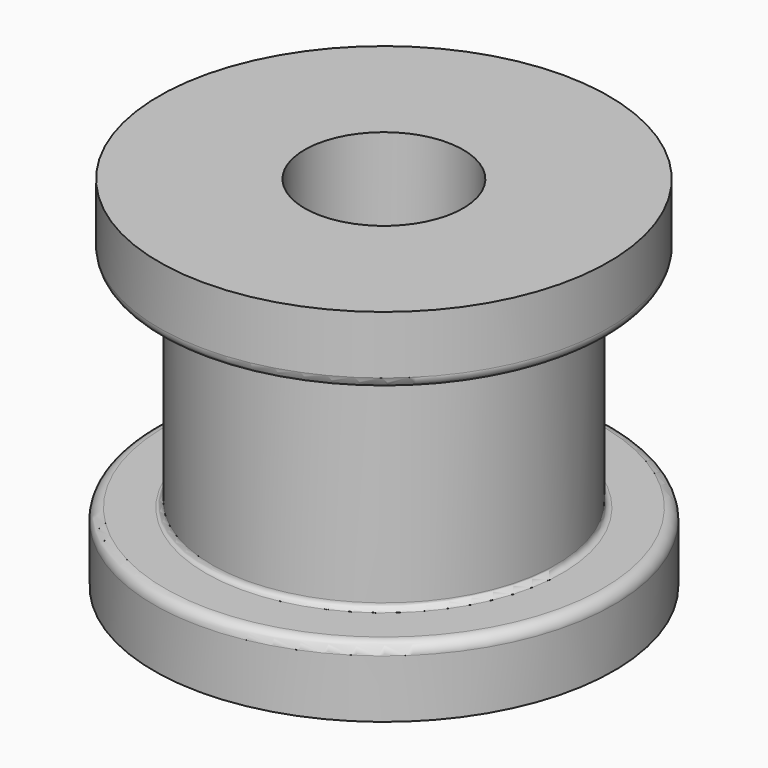
from build123d import *


with BuildPart() as f1:
    # F0 (on Right) → F1 (revolve)
    with BuildSketch(Plane.YZ):
        with BuildLine():
            Line((-2.95275, -6.67385), (-2.95275, 0))
            Line((-2.95275, 0), (-8.37565, 0))
            Line((-8.37565, 0), (-8.37565, -2.16535))
            ThreePointArc((-8.37565, -2.16535), (-8.256618, -2.452718), (-7.96925, -2.57175))
            Line((-7.96925, -2.57175), (-6.635698, -2.57175))
            ThreePointArc((-6.635698, -2.57175), (-6.48307, -2.63497), (-6.41985, -2.787598))
            Line((-6.41985, -2.787598), (-6.41985, -10.560102))
            ThreePointArc((-6.41985, -10.560102), (-6.48307, -10.71273), (-6.635698, -10.77595))
            Line((-6.635698, -10.77595), (-8.159802, -10.77595))
            ThreePointArc((-8.159802, -10.77595), (-8.44717, -10.894982), (-8.566202, -11.18235))
            Line((-8.566202, -11.18235), (-8.566202, -13.3477))
            Line((-8.566202, -13.3477), (-2.95275, -13.3477))
            Line((-2.95275, -13.3477), (-2.95275, -6.67385))
        make_face()
    revolve(axis=Axis((0, 0, -6.67385), (0, 0, -1)))


solid = f1.part
